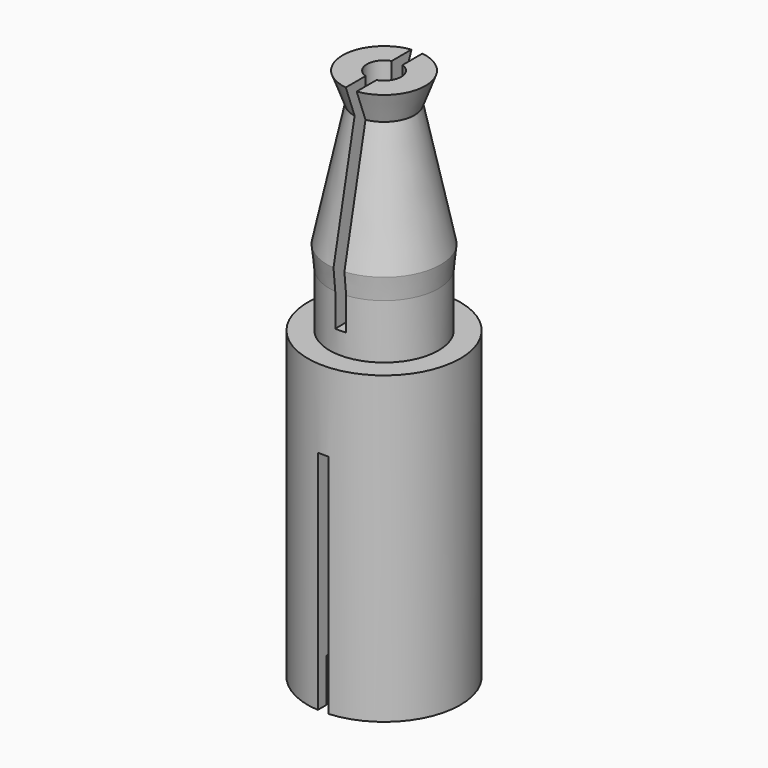
from build123d import *

# Parameters (mm, degrees)
SKETCH001_R          = 2.47
POCKET_DEPTH         = 12
SKETCH002_R          = 0.7874
POCKET001_DEPTH      = 24.501
SKETCH003_R          = 3
POCKET002_DEPTH      = 2
SKETCH004_W          = 0.5
SKETCH004_H          = 15
SKETCH004_H_2        = 13
POCKET003_DEPTH      = 5
POCKET003_DEPTH_BACK = -5


with BuildPart() as part:
    # Sketch → Revolution (revolve)
    with BuildSketch(Plane.XZ):
        Polygon((2.5, 0), (3.5, 0), (3.5, -14), (0, -14), (0, 0), (0, 10.5), (1.9, 10.5), (1.4, 9.15), (2.6, 3.5), (2.5, 2.5), align=None)
    revolve(axis=Axis((0, 0, 0), (0, 0, 1)))

    # Sketch001 (on Face5 of Revolution) → Pocket (cut)
    with BuildSketch(Plane(origin=(0, 0, -14), x_dir=(1, 0, 0), z_dir=(0, 0, -1))):
        Circle(SKETCH001_R)
    extrude(amount=-POCKET_DEPTH, mode=Mode.SUBTRACT)

    # Sketch002 (on Face6 of Pocket) → Pocket001 (cut, through all)
    with BuildSketch(Plane(origin=(0, 0, 10.5), x_dir=(-1, 0, 0), z_dir=(0, 0, 1))):
        Circle(SKETCH002_R)
    extrude(amount=-POCKET001_DEPTH, mode=Mode.SUBTRACT)

    # Sketch003 (on Face9 of Pocket001) → Pocket002 (cut)
    with BuildSketch(Plane(origin=(0, 0, -14), x_dir=(1, 0, 0), z_dir=(0, 0, -1))):
        Circle(SKETCH003_R)
    extrude(amount=-POCKET002_DEPTH, mode=Mode.SUBTRACT)

    # Sketch004 → Pocket003 (cut, two sides)
    with BuildSketch(Plane.XZ) as pocket003_sk:
        with Locations((0, 8.5)):
            Rectangle(SKETCH004_W, SKETCH004_H)
        with Locations((0, -10.1)):
            Rectangle(SKETCH004_W, SKETCH004_H_2)
    extrude(amount=-POCKET003_DEPTH, mode=Mode.SUBTRACT)
    extrude(pocket003_sk.sketch, amount=-POCKET003_DEPTH_BACK, mode=Mode.SUBTRACT)


solid = part.part
